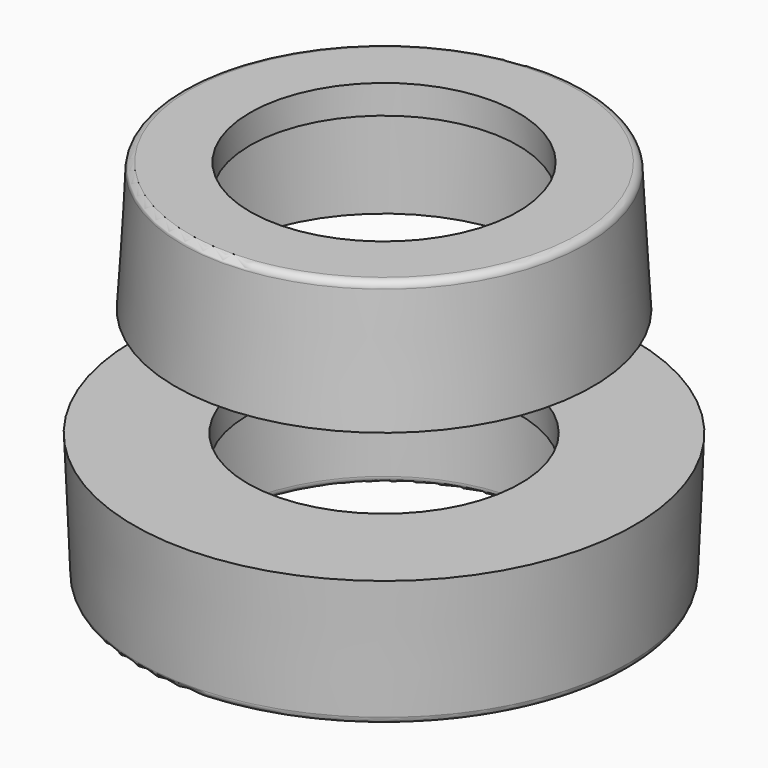
from build123d import *


with BuildPart() as f1:
    # F0 (on Front) → F1 (revolve)
    with BuildSketch(Plane.XZ):
        with BuildLine():
            Line((-14.5, 0), (-11.25, 0))
            Line((-11.25, 0), (-11.25, 6.5))
            ThreePointArc((-11.25, 6.5), (-11.103553, 6.853553), (-10.75, 7))
            Line((-10.75, 7), (-9.31, 7))
            Line((-9.31, 7), (-9.31, 9))
            Line((-9.31, 9), (-11.31, 9))
            Line((-11.31, 9), (-13.527007, 9))
            ThreePointArc((-13.527007, 9), (-13.870614, 8.863227), (-14.026237, 8.527735))
            Line((-14.026237, 8.527735), (-14.5, 0))
        make_face()
        with BuildLine():
            Line((-11.25, -16.060411), (-11.25, -10.060411))
            ThreePointArc((-11.25, -10.060411), (-11.103553, -9.706858), (-10.75, -9.560411))
            Line((-10.75, -9.560411), (-9.477165, -9.560411))
            Line((-9.477165, -9.560411), (-9.477165, -7.560411))
            Line((-9.477165, -7.560411), (-17.375, -7.560411))
            Line((-17.375, -7.560411), (-17.019966, -16.081226))
            ThreePointArc((-17.019966, -16.081226), (-16.866515, -16.421249), (-16.520399, -16.560411))
            Line((-16.520399, -16.560411), (-11.75, -16.560411))
            ThreePointArc((-11.75, -16.560411), (-11.396447, -16.413964), (-11.25, -16.060411))
        make_face()
    revolve(axis=Axis((0, 0, 10.463975), (0, 0, 1)))


solid = f1.part
